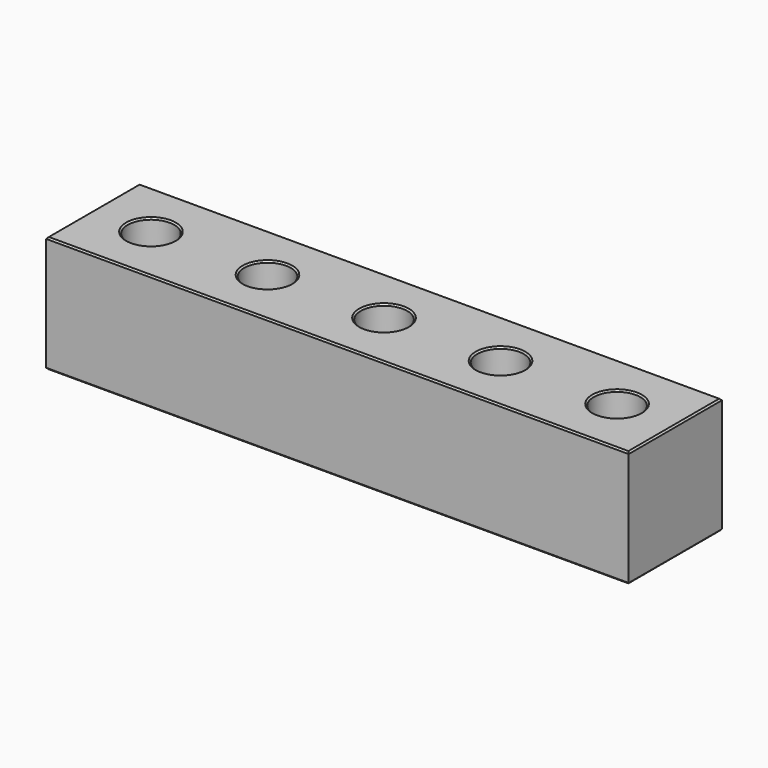
from build123d import *

# Parameters (mm, degrees)
EXPORT001_W     = 150
EXPORT001_H     = 30
EXPORT001_R     = 6
PAD_DEPTH       = 10
EXPORT002_W     = 150
EXPORT002_H     = 30
PAD001_DEPTH    = 20
CHAMFER_SIZE    = 0.4
CHAMFER001_SIZE = 0.4


with BuildPart() as part:
    # Export001 → Pad (new body)
    with BuildSketch(Plane.XY):
        with Locations((75, 0)):
            Rectangle(EXPORT001_W, EXPORT001_H)
        with Locations((15, 0)):
            Circle(EXPORT001_R, mode=Mode.SUBTRACT)
        with Locations((45, 0)):
            Circle(EXPORT001_R, mode=Mode.SUBTRACT)
        with Locations((75, 0)):
            Circle(EXPORT001_R, mode=Mode.SUBTRACT)
        with Locations((105, 0)):
            Circle(EXPORT001_R, mode=Mode.SUBTRACT)
        with Locations((135, 0)):
            Circle(EXPORT001_R, mode=Mode.SUBTRACT)
    extrude(amount=PAD_DEPTH)

    # Export002 → Pad001 (join)
    with BuildSketch(Plane.XY):
        with Locations((75, 0)):
            Rectangle(EXPORT002_W, EXPORT002_H)
    extrude(amount=-PAD001_DEPTH)

    # Chamfer
    chamfer_edges = [part.edges().sort_by_distance(p)[0] for p in [
        (75, 15, -20),
        (150, 0, -20),
        (75, -15, -20),
        (0, 0, -20),
    ]]
    chamfer(chamfer_edges, length=CHAMFER_SIZE)

    # Chamfer001
    chamfer001_edges = [part.edges().sort_by_distance(p)[0] for p in [
        (75, 15, 10),
        (150, 0, 10),
        (75, -15, 10),
        (0, 0, 10),
        (129, 0, 10),
        (99, 0, 10),
        (69, 0, 10),
        (39, 0, 10),
        (9, 0, 10),
    ]]
    chamfer(chamfer001_edges, length=CHAMFER001_SIZE)


solid = part.part
